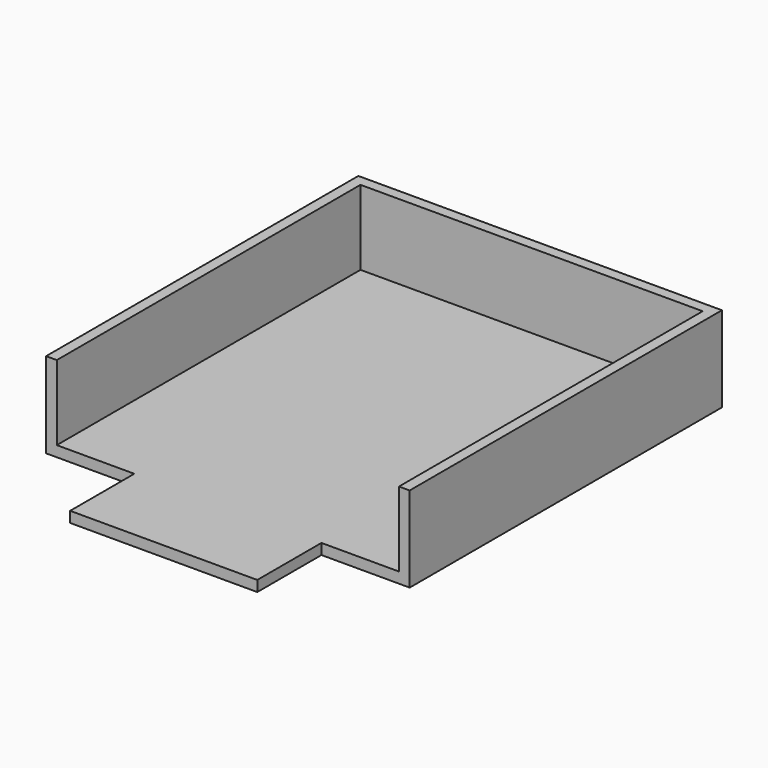
from build123d import *

# Parameters (mm, degrees)
F0_W     = 35
F0_H     = 15
F1_DEPTH = 2
F2_W     = 64
F2_H     = 2
F3_DEPTH = 14


with BuildPart() as f1:
    # F0 (on Top) → F1 (new body)
    with BuildSketch(Plane.XY):
        Polygon((0, 73), (0, 0), (16.5, 0), (51.5, 0), (68, 0), (68, 73), align=None)
        with Locations((34, -7.5)):
            Rectangle(F0_W, F0_H)
    extrude(amount=F1_DEPTH)

    # F2 (on face) → F3 (join)
    with BuildSketch(Plane.XY.offset(2)):
        Polygon((0, 73), (0, 0), (2, 0), (2, 71), (2, 73), align=None)
        with Locations((34, 72)):
            Rectangle(F2_W, F2_H)
        Polygon((66, 73), (66, 71), (66, 0), (68, 0), (68, 73), align=None)
    extrude(amount=F3_DEPTH)


solid = f1.part
